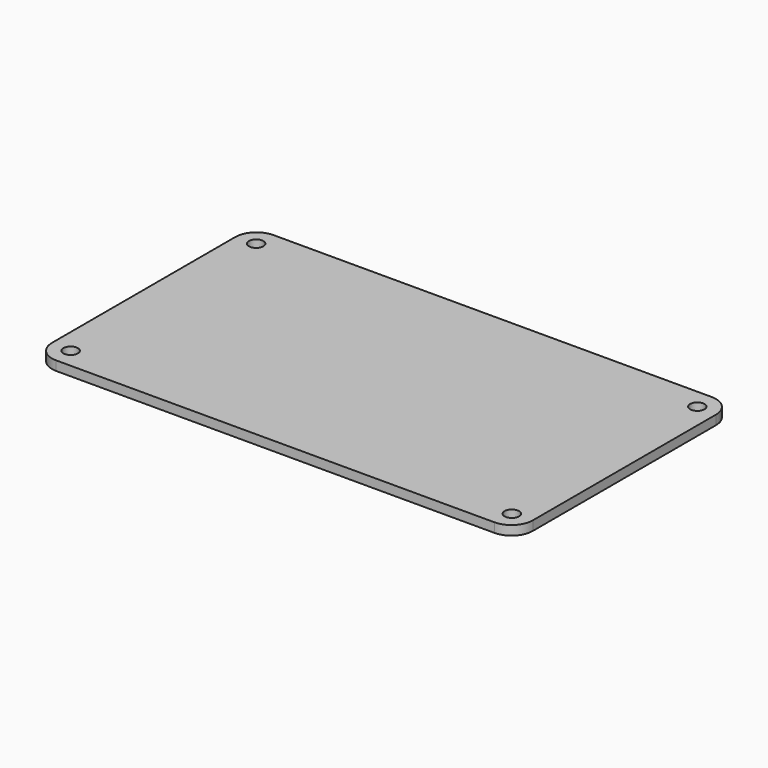
from build123d import *

# Parameters (mm, degrees)
F0_W     = 85
F0_H     = 48
F0_R     = 1.275
F1_DEPTH = 1.65
F2_R     = 3.75


with BuildPart() as f1:
    # F0 (on Top) → F1 (new body)
    with BuildSketch(Plane.XY):
        with Locations((10.194141, -18.347753)):
            Rectangle(F0_W, F0_H)
        with Locations((-28.805859, -38.847753)):
            Circle(F0_R, mode=Mode.SUBTRACT)
        with Locations((49.194141, -38.847753)):
            Circle(F0_R, mode=Mode.SUBTRACT)
        with Locations((-28.805859, 2.152247)):
            Circle(F0_R, mode=Mode.SUBTRACT)
        with Locations((49.194141, 2.152247)):
            Circle(F0_R, mode=Mode.SUBTRACT)
    extrude(amount=F1_DEPTH)

    # F2
    f2_edges = [f1.edges().sort_by_distance(p)[0] for p in [
        (52.694141, -42.347753, 0.825),
        (-32.305859, -42.347753, 0.825),
        (-32.305859, 5.652247, 0.825),
        (52.694141, 5.652247, 0.825),
    ]]
    fillet(f2_edges, radius=F2_R)


solid = f1.part
